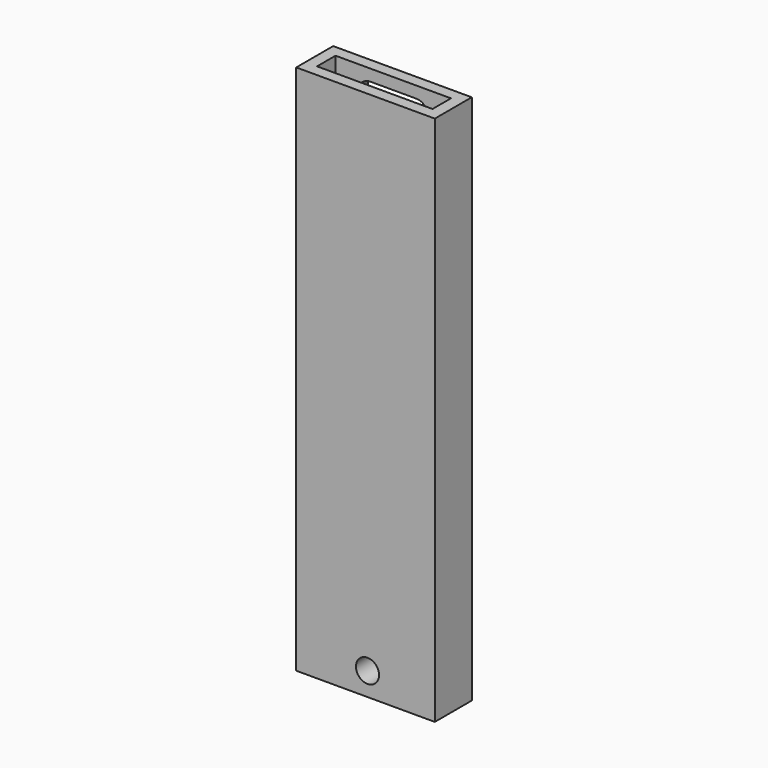
from build123d import *

# Parameters (mm, degrees)
F0_W     = 152.4
F0_H     = 50.8
F1_DEPTH = 584.2
F2_R     = 12.7
F3_DEPTH = 50.801
F4_W     = 76.2
F4_H     = 520.7
F5_DEPTH = 25.4
F6_R     = 12.7
F7_W     = 127
F7_H     = 25.4
F8_DEPTH = 539.75


with BuildPart() as f1:
    # F0 (on Top) → F1 (new body)
    with BuildSketch(Plane.XY):
        with Locations((-2.158545, 4.991524)):
            Rectangle(F0_W, F0_H)
    extrude(amount=F1_DEPTH)

    # F2 (on face) → F3 (cut, through all)
    with BuildSketch(Plane.XZ.offset(20.408476)):
        with Locations((0, 25.4)):
            Circle(F2_R)
    extrude(amount=-F3_DEPTH, mode=Mode.SUBTRACT)

    # F4 (on face) → F5 (cut)
    with BuildSketch(Plane(origin=(0, 30.391524, 0), x_dir=(-1, 0, 0), z_dir=(0, 1, 0))):
        with Locations((2.158545, 311.15)):
            Rectangle(F4_W, F4_H)
    extrude(amount=-F5_DEPTH, mode=Mode.SUBTRACT)

    # F6
    f6_edges = [f1.edges().sort_by_distance(p)[0] for p in [
        (35.941455, 17.691524, 50.8),
        (-40.258545, 17.691524, 50.8),
        (-40.258545, 17.691524, 571.5),
        (35.941455, 17.691524, 571.5),
    ]]
    fillet(f6_edges, radius=F6_R)

    # F7 (on face) → F8 (cut)
    with BuildSketch(Plane.XY.offset(584.2)):
        with Locations((-2.158545, 4.991524)):
            Rectangle(F7_W, F7_H)
    extrude(amount=-F8_DEPTH, mode=Mode.SUBTRACT)


solid = f1.part
